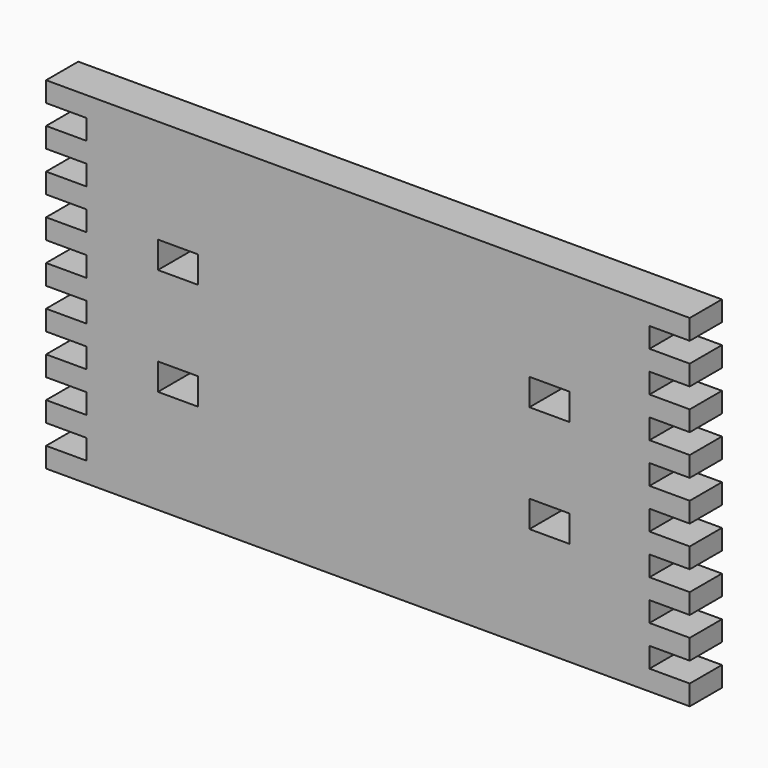
from build123d import *

# Parameters (mm, degrees)
F0_W     = 19.05
F0_H     = 12.7
F1_DEPTH = 19.05


with BuildPart() as f1:
    # F0 (on Front) → F1 (new body)
    with BuildSketch(Plane.XZ):
        Polygon((-152.4, -80.9625), (0, -80.9625), (152.4, -80.9625), (152.4, -71.4375), (133.35, -71.4375), (133.35, -61.9125), (152.4, -61.9125), (152.4, -52.3875), (133.35, -52.3875), (133.35, -42.8625), (152.4, -42.8625), (152.4, -33.3375), (133.35, -33.3375), (133.35, -23.8125), (152.4, -23.8125), (152.4, -14.2875), (133.35, -14.2875), (133.35, -4.7625), (152.4, -4.7625), (152.4, 4.7625), (133.35, 4.7625), (133.35, 14.2875), (152.4, 14.2875), (152.4, 23.8125), (133.35, 23.8125), (133.35, 33.3375), (152.4, 33.3375), (152.4, 42.8625), (133.35, 42.8625), (133.35, 52.3875), (152.4, 52.3875), (152.4, 61.9125), (133.35, 61.9125), (133.35, 71.4375), (152.4, 71.4375), (152.4, 80.9625), (-152.4, 80.9625), (-152.4, 71.4375), (-133.35, 71.4375), (-133.35, 61.9125), (-152.4, 61.9125), (-152.4, 52.3875), (-133.35, 52.3875), (-133.35, 42.8625), (-152.4, 42.8625), (-152.4, 33.3375), (-133.35, 33.3375), (-133.35, 23.8125), (-152.4, 23.8125), (-152.4, 14.2875), (-133.35, 14.2875), (-133.35, 4.7625), (-152.4, 4.7625), (-152.4, -4.7625), (-133.35, -4.7625), (-133.35, -14.2875), (-152.4, -14.2875), (-152.4, -23.8125), (-133.35, -23.8125), (-133.35, -33.3375), (-152.4, -33.3375), (-152.4, -42.8625), (-133.35, -42.8625), (-133.35, -52.3875), (-152.4, -52.3875), (-152.4, -61.9125), (-133.35, -61.9125), (-133.35, -71.4375), (-152.4, -71.4375), align=None)
        with Locations((-89.910227, -25.4)):
            Rectangle(F0_W, F0_H, mode=Mode.SUBTRACT)
        with Locations((86.013636, -25.4)):
            Rectangle(F0_W, F0_H, mode=Mode.SUBTRACT)
        with Locations((-89.910227, 25.4)):
            Rectangle(F0_W, F0_H, mode=Mode.SUBTRACT)
        with Locations((86.013636, 25.4)):
            Rectangle(F0_W, F0_H, mode=Mode.SUBTRACT)
    extrude(amount=F1_DEPTH)


solid = f1.part
